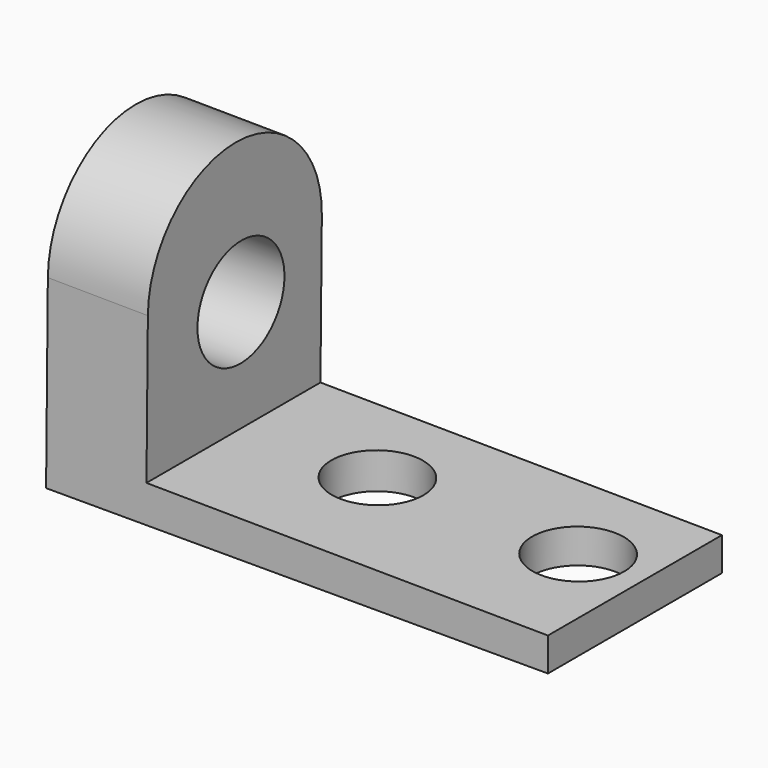
from build123d import *

# Parameters (mm, degrees)
F1_DEPTH = 82.55
F2_R     = 17.4625
F3_DEPTH = 25.4
F5_DEPTH = 25.4
F6_DEPTH = 37.9726117289
F7_R     = 20.6375
F8_DEPTH = 37.9716117289


with BuildPart() as f1:
    # F0 (on Front) → F1 (new body)
    with BuildSketch(Plane.XZ):
        Polygon((-74.6513270113, 141.1331224257), (-75.983799994, 0), (114.516200006, 0), (114.516200006, 12.7), (-37.8770081944, 14.1387822587), (-36.6780229788, 141.1331224257), align=None)
    extrude(amount=F1_DEPTH)

    # F2 (on face) → F3 (cut)
    with BuildSketch(Plane(origin=(0.1300999203, 0, 13.7799476787), x_dir=(0.9999554344, 0, -0.0094408285), z_dir=(0.0094408285, 0, 0.9999554344))):
        with Locations((12.7911979997, -36.4772640169)):
            Circle(F2_R)
        with Locations((88.9911979997, -36.4772640169)):
            Circle(F2_R)
    extrude(amount=-F3_DEPTH, mode=Mode.SUBTRACT)

    # F5 (cut): a face of the model
    f5_faces = [f1.faces().sort_by_distance(p)[0] for p in [
        (-55.6646749951, -41.275, 141.1331224257),
    ]]
    extrude(f5_faces, amount=-F5_DEPTH, mode=Mode.SUBTRACT)

    # F4 (on face) → F6 (cut, through all)
    with BuildSketch(Plane(origin=(-75.9770276155, 0, 0.7173180531), x_dir=(0, -1, 0), z_dir=(-0.9999554344, 0, 0.0094408285))):
        with BuildLine():
            ThreePointArc((0, 69.852356173), (41.275, 111.127356173), (82.55, 69.852356173))
            Line((82.55, 69.852356173), (82.55, 140.4220623681))
            Line((82.55, 140.4220623681), (0, 140.4220623681))
            Line((0, 140.4220623681), (0, 69.852356173))
        make_face()
    extrude(amount=-F6_DEPTH, mode=Mode.SUBTRACT)

    # F7 (on face) → F8 (cut, through all)
    with BuildSketch(Plane(origin=(-75.9770276155, 0, 0.7173180531), x_dir=(0, -1, 0), z_dir=(-0.9999554344, 0, 0.0094408285))):
        with Locations((38.2229980028, 56.3510982116)):
            Circle(F7_R)
    extrude(amount=-F8_DEPTH, mode=Mode.SUBTRACT)


solid = f1.part
